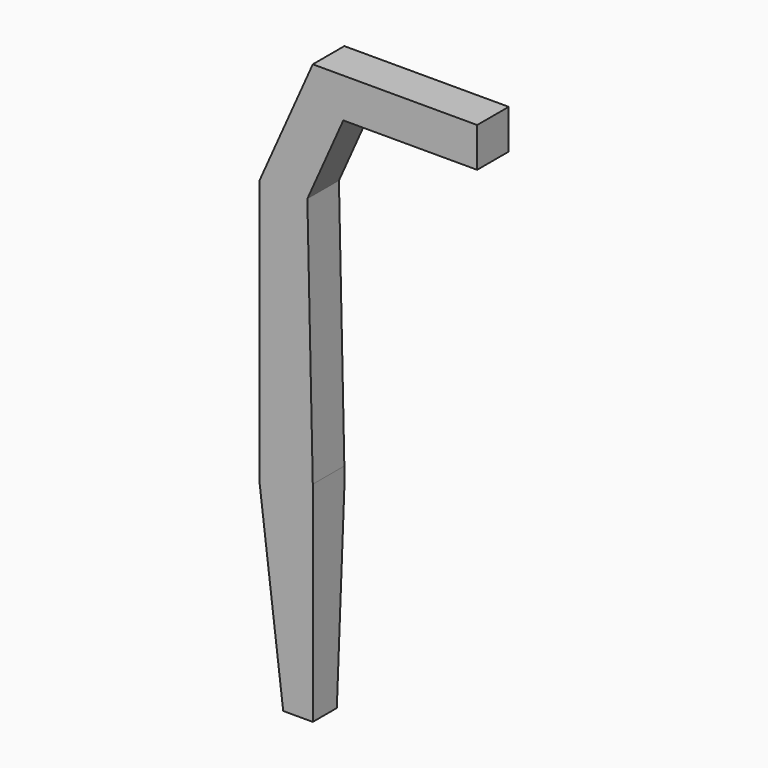
from build123d import *

# Parameters (mm, degrees)
F1_DEPTH = 6
F3_DEPTH = 25


with BuildPart() as f1:
    # F0 (on Front) → F1 (new body)
    with BuildSketch(Plane.XZ):
        Polygon((-4.5, -31.8272658396), (0, -31.8272658396), (0, 0), (-0.8232879316, 37.9513760403), (4.6418411657, 50.2209867162), (25, 50.2209867162), (25, 56.2209867162), (0, 56.2209867162), (-8.1376486622, 37.9513760403), (-8.1376486622, -2.0486239597), align=None)
    extrude(amount=F1_DEPTH)

    # F2 (on face) → F3 (cut)
    with BuildSketch(Plane(origin=(-8.2645756515, 0, -1.0095699691), x_dir=(0, -1, 0), z_dir=(-0.992621396, 0, -0.1212549554))):
        Polygon((1.5354667557, -33.7210781872), (0, -2.9001352377), (-1.3538057703, -33.8650186864), align=None)
    extrude(amount=-F3_DEPTH, mode=Mode.SUBTRACT)


solid = f1.part
